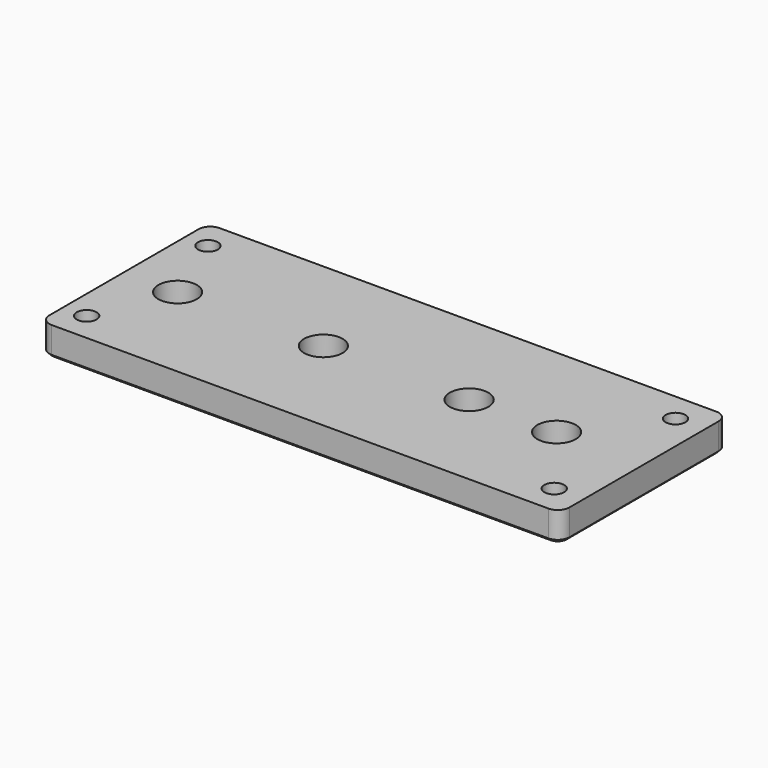
from build123d import *

# Parameters (mm, degrees)
F0_W           = 89.2
F0_H           = 36
F1_DEPTH       = 5
F2_D           = 6.6
F2_DEPTH       = 15
F2_TIP         = 1.9828400428
F3_D           = 3.4
F3_DEPTH       = 15
F3_CSINK_D     = 6.5
F3_CSINK_ANGLE = 90
F3_TIP         = 1.0214630523
F4_R           = 2
F5_SIZE        = 0.5


with BuildPart() as f1:
    # F0 (on Top) → F1 (new body)
    with BuildSketch(Plane.XY):
        Rectangle(F0_W, F0_H)
    extrude(amount=F1_DEPTH)

    # F2
    with Locations(Plane(origin=(0, 0, 0), x_dir=(1, 0, 0), z_dir=(0, 0, -1))):
        with Locations((-35.4, 0), (-10.4, 0), (14.6, 0), (29.6, 0)):
            Hole(F2_D / 2, depth=F2_DEPTH)
            with Locations((0, 0, -(F2_DEPTH + F2_TIP / 2))):  # 118° drill point
                Cone(0, F2_D / 2, F2_TIP, mode=Mode.SUBTRACT)

    # F3
    with Locations(Plane(origin=(0, 0, 0), x_dir=(1, 0, 0), z_dir=(0, 0, -1))):
        with Locations((-40.6, 13), (-40.6, -13), (39.6, -13), (39.6, 13)):
            CounterSinkHole(F3_D / 2, F3_CSINK_D / 2, depth=F3_DEPTH, counter_sink_angle=F3_CSINK_ANGLE)
            with Locations((0, 0, -(F3_DEPTH + F3_TIP / 2))):  # 118° drill point
                Cone(0, F3_D / 2, F3_TIP, mode=Mode.SUBTRACT)

    # F4
    f4_edges = [f1.edges().sort_by_distance(p)[0] for p in [
        (-44.6, 18, 2.5),
        (44.6, 18, 2.5),
        (-44.6, -18, 2.5),
        (44.6, -18, 2.5),
    ]]
    fillet(f4_edges, radius=F4_R)

    # F5
    f5_edges = [f1.edges().sort_by_distance(p)[0] for p in [
        (44.6, 0, 0),
    ]]
    chamfer(f5_edges, length=F5_SIZE)


solid = f1.part
